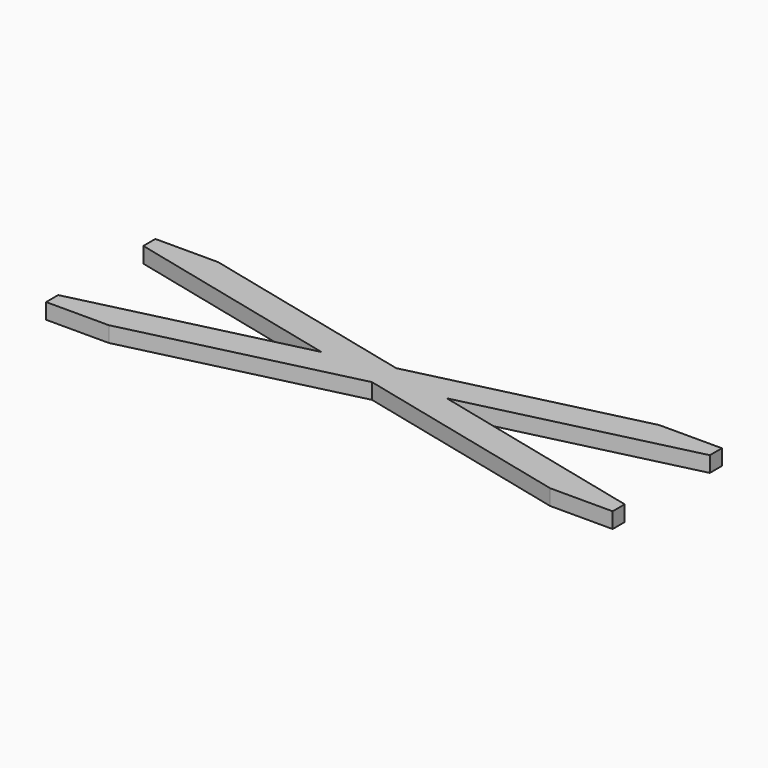
from build123d import *

# Parameters (mm, degrees)
F1_DEPTH = 2.54


with BuildPart() as f1:
    # F0 (on Top) → F1 (new body)
    with BuildSketch(Plane.XY):
        Polygon((-46.0248, 11.0998), (-46.0248, 8.650278), (-10.170369, 0.003266), (-46.0248, -8.643746), (-46.0248, -11.0998), (-35.840889, -11.0998), (0.013542, -2.452788), (35.867974, -11.0998), (46.0248, -11.0998), (46.0248, -8.637214), (10.197454, 0.003266), (46.0248, 8.643746), (46.0248, 11.0998), (35.840889, 11.0998), (0.013542, 2.45932), (-35.813804, 11.0998), align=None)
    extrude(amount=F1_DEPTH)


solid = f1.part
